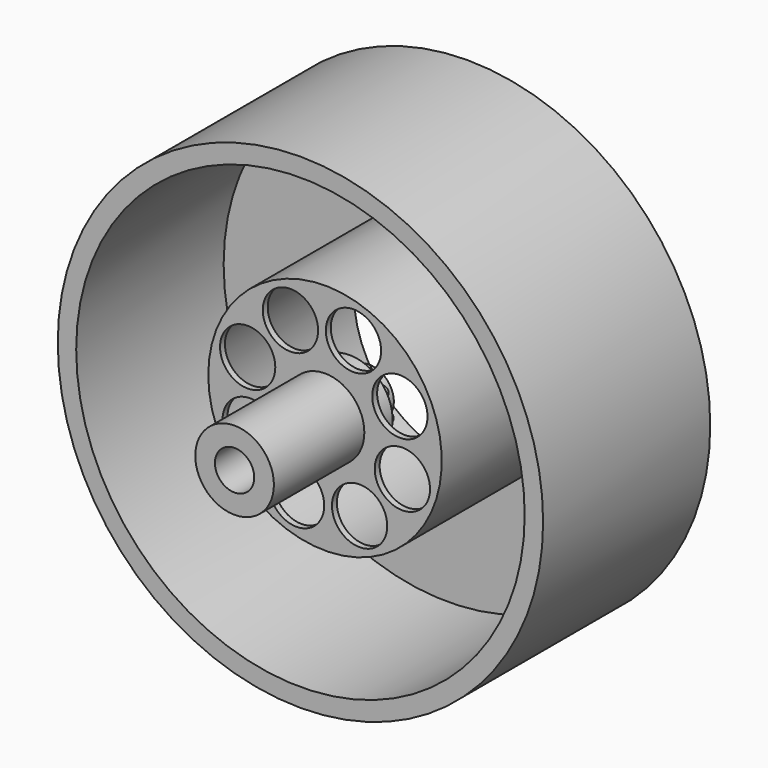
from build123d import *

# Parameters (mm, degrees)
F0_R      = 19.75
F1_DEPTH  = 17
F2_R      = 18.25
F3_DEPTH  = 15
F4_R      = 9.5
F5_DEPTH  = 14.5
F6_R      = 9.25
F7_DEPTH  = 14
F8_R      = 3.2
F9_DEPTH  = 9.2
F10_R     = 1.6
F11_DEPTH = 7
F12_R     = 2.25
F13_DEPTH = 25.4
F14_R     = 3.5
F15_DEPTH = 2
F16_R     = 2
F17_DEPTH = 2
F18_R     = 0.4
F19_DEPTH = 0.5


with BuildPart() as f1:
    # F0 (on Front) → F1 (new body)
    with BuildSketch(Plane.XZ):
        Circle(F0_R)
    extrude(amount=F1_DEPTH)

    # F2 (on face) → F3 (cut)
    with BuildSketch(Plane.XZ.offset(17)):
        Circle(F2_R)
    extrude(amount=-F3_DEPTH, mode=Mode.SUBTRACT)

    # F4 (on face) → F5 (join)
    with BuildSketch(Plane(origin=(0, 0, 0), x_dir=(-1, 0, 0), z_dir=(0, 1, 0))):
        Circle(F4_R)
    extrude(amount=-F5_DEPTH)

    # F6 (on face) → F7 (cut)
    with BuildSketch(Plane(origin=(0, 0, 0), x_dir=(-1, 0, 0), z_dir=(0, 1, 0))):
        Circle(F6_R)
    extrude(amount=-F7_DEPTH, mode=Mode.SUBTRACT)

    # F8 (on face) → F9 (join)
    with BuildSketch(Plane.XZ.offset(14.5)):
        Circle(F8_R)
    extrude(amount=F9_DEPTH)

    # F10 (on face) → F11 (cut)
    with BuildSketch(Plane.XZ.offset(23.7)):
        Circle(F10_R)
    extrude(amount=-F11_DEPTH, mode=Mode.SUBTRACT)

    # F12 (on face) → F13 (cut)
    with BuildSketch(Plane.XZ.offset(14.5)):
        with Locations((-2.813868, 6.090039)):
            Circle(F12_R)
        with Locations((2.316602, 6.296013)):
            Circle(F12_R)
        with Locations((6.090039, 2.813868)):
            Circle(F12_R)
        with Locations((6.296013, -2.316602)):
            Circle(F12_R)
        with Locations((2.813868, -6.090039)):
            Circle(F12_R)
        with Locations((-2.316602, -6.296013)):
            Circle(F12_R)
        with Locations((-6.090039, -2.813868)):
            Circle(F12_R)
        with Locations((-6.296013, 2.316602)):
            Circle(F12_R)
    extrude(amount=-F13_DEPTH, mode=Mode.SUBTRACT)

    # F14 (on face) → F15 (join)
    with BuildSketch(Plane(origin=(0, -14, 0), x_dir=(-1, 0, 0), z_dir=(0, 1, 0))):
        Circle(F14_R)
    extrude(amount=F15_DEPTH)

    # F16 (on face) → F17 (join)
    with BuildSketch(Plane(origin=(0, -12, 0), x_dir=(-1, 0, 0), z_dir=(0, 1, 0))):
        Circle(F16_R)
    extrude(amount=F17_DEPTH)

    # F18 (on face) → F19 (join)
    with BuildSketch(Plane(origin=(0, -12, 0), x_dir=(-1, 0, 0), z_dir=(0, 1, 0))):
        with Locations((-2.139466, -1.804263)):
            Circle(F18_R)
        with Locations((-0.670345, -2.717225)):
            Circle(F18_R)
        with Locations((1.054824, -2.592301)):
            Circle(F18_R)
        with Locations((2.377087, -1.477205)):
            Circle(F18_R)
        with Locations((2.791383, 0.202133)):
            Circle(F18_R)
        with Locations((2.139466, 1.804263)):
            Circle(F18_R)
        with Locations((0.670345, 2.717225)):
            Circle(F18_R)
        with Locations((-1.054824, 2.592301)):
            Circle(F18_R)
        with Locations((-2.791383, -0.202133)):
            Circle(F18_R)
        with Locations((-2.377087, 1.477205)):
            Circle(F18_R)
    extrude(amount=F19_DEPTH)


solid = f1.part
